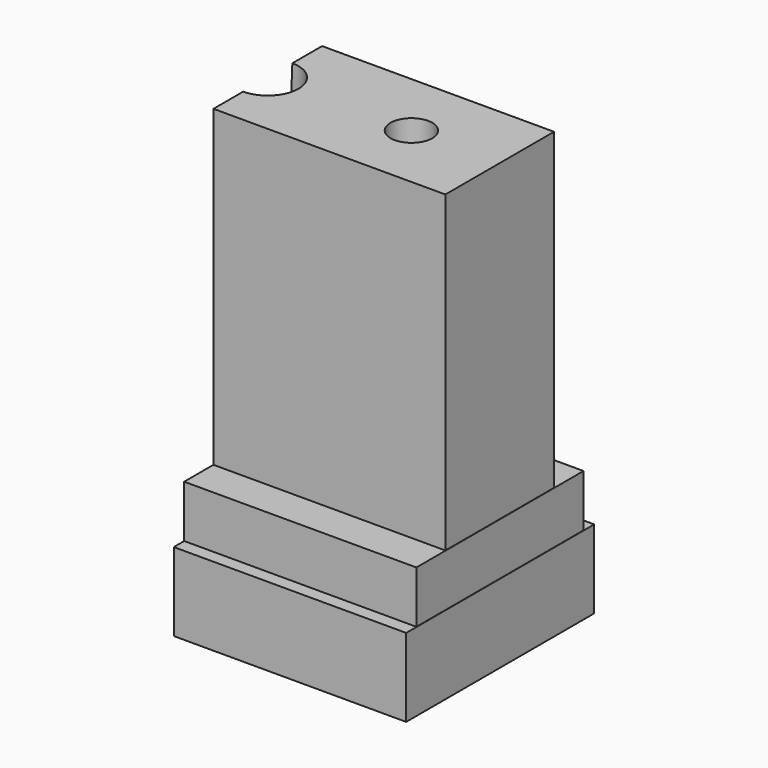
from build123d import *

# Parameters (mm, degrees)
F0_W      = 88.8
F0_H      = 26
F1_DEPTH  = 60
F3_DEPTH  = 45
F4_R      = 2
F5_W      = 88.9
F5_H      = 40
F6_DEPTH  = 10
F8_DEPTH  = 10
F9_R      = 2
F10_W     = 89
F10_H     = 45
F11_DEPTH = 15
F13_DEPTH = 5
F14_R     = 2
F15_R     = 4.6723110677
F15_R_2   = 4
F16_DEPTH = 85.001
F17_W     = 79.5239582658
F17_H     = 118.802215904
F18_DEPTH = 80
F19_R     = 3
F20_DEPTH = 3
F20_TAPER = -3
F21_DEPTH = 3
F21_TAPER = 3
F22_R     = 5.0890490665
F23_DEPTH = 25
F23_TAPER = -3


with BuildPart() as f1:
    # F0 (on Top) → F1 (new body)
    with BuildSketch(Plane.XY):
        Rectangle(F0_W, F0_H)
    extrude(amount=F1_DEPTH)

    # F2 (on face) → F3 (cut)
    with BuildSketch(Plane(origin=(0, 0, 0), x_dir=(1, 0, 0), z_dir=(0, 0, -1))):
        Polygon((-17.5, -7.6945363638), (0, -8), (17.5, -7.6945363638), (17.5, 7.6945363638), (0, 8), (-17.5, 7.6945363638), align=None)
    extrude(amount=-F3_DEPTH, mode=Mode.SUBTRACT)

    # F4
    f4_edges = [f1.edges().sort_by_distance(p)[0] for p in [
        (-17.5, 7.694536, 22.5),
        (-17.5, -7.694536, 22.5),
        (17.5, -7.694536, 22.5),
        (17.5, 7.694536, 22.5),
    ]]
    fillet(f4_edges, radius=F4_R)

    # F5 (on face) → F6 (join)
    with BuildSketch(Plane(origin=(0, 0, 0), x_dir=(1, 0, 0), z_dir=(0, 0, -1))):
        Rectangle(F5_W, F5_H)
    extrude(amount=F6_DEPTH)

    # F7 (on face) → F8 (cut)
    with BuildSketch(Plane(origin=(0, 0, -10), x_dir=(1, 0, 0), z_dir=(0, 0, -1))):
        Polygon((-20, -10.1508987014), (0, -10.5), (20, -10.1508987014), (20, 10.1508987014), (0, 10.5), (-20, 10.1508987014), align=None)
    extrude(amount=-F8_DEPTH, mode=Mode.SUBTRACT)

    # F9
    f9_edges = [f1.edges().sort_by_distance(p)[0] for p in [
        (-20, 10.150899, -5),
        (-20, -10.150899, -5),
        (20, 10.150899, -5),
        (20, -10.150899, -5),
    ]]
    fillet(f9_edges, radius=F9_R)

    # F10 (on face) → F11 (join)
    with BuildSketch(Plane(origin=(0, 0, -10), x_dir=(1, 0, 0), z_dir=(0, 0, -1))):
        Rectangle(F10_W, F10_H)
    extrude(amount=F11_DEPTH)

    # F12 (on face) → F13 (cut)
    with BuildSketch(Plane.XY.offset(-10)):
        Polygon((-39.5, -16.5605249353), (0, -17.25), (39.5, -16.5605249353), (39.5, 16.5605249353), (0, 17.25), (-39.5, 16.5605249353), align=None)
    extrude(amount=-F13_DEPTH, mode=Mode.SUBTRACT)

    # F14
    f14_edges = [f1.edges().sort_by_distance(p)[0] for p in [
        (-39.5, 16.560525, -12.5),
        (-39.5, -16.560525, -12.5),
        (39.5, -16.560525, -12.5),
        (39.5, 16.560525, -12.5),
    ]]
    fillet(f14_edges, radius=F14_R)

    # F15 (on face) → F16 (cut, through all)
    with BuildSketch(Plane.XY.offset(60)):
        with Locations((-27.5, 0)):
            Circle(F15_R)
        with Locations((27.5, 0)):
            Circle(F15_R_2)
    extrude(amount=-F16_DEPTH, mode=Mode.SUBTRACT)

    # F17 (on Right) → F18 (cut)
    with BuildSketch(Plane.YZ):
        with Locations((3.9665214717, 9.8679382354)):
            Rectangle(F17_W, F17_H)
    extrude(amount=-F18_DEPTH, mode=Mode.SUBTRACT)

    # F19 (on face) → F20 (join)
    with BuildSketch(Plane(origin=(0, 0, 0), x_dir=(0, -1, 0), z_dir=(-1, 0, 0))):
        with Locations((8.2831978798, 53.2280467451)):
            Circle(F19_R)
        with Locations((0, -20.896807313)):
            Circle(F19_R)
        with Locations((-8.2831978798, 53.2280467451)):
            Circle(F19_R)
    extrude(amount=-F20_DEPTH, taper=F20_TAPER)

    # F19 (on face) → F21 (cut)
    with BuildSketch(Plane(origin=(0, 0, 0), x_dir=(0, -1, 0), z_dir=(-1, 0, 0))):
        with Locations((8.2831978798, 53.2280467451)):
            Circle(F19_R)
        with Locations((0, -20.896807313)):
            Circle(F19_R)
        with Locations((-8.2831978798, 53.2280467451)):
            Circle(F19_R)
    extrude(amount=-F21_DEPTH, taper=F21_TAPER, mode=Mode.SUBTRACT)

    # F22 (on face) → F23 (cut)
    with BuildSketch(Plane(origin=(0, 0, 45), x_dir=(1, 0, 0), z_dir=(0, 0, -1))):
        Circle(F22_R)
    extrude(amount=-F23_DEPTH, taper=F23_TAPER, mode=Mode.SUBTRACT)


solid = f1.part
